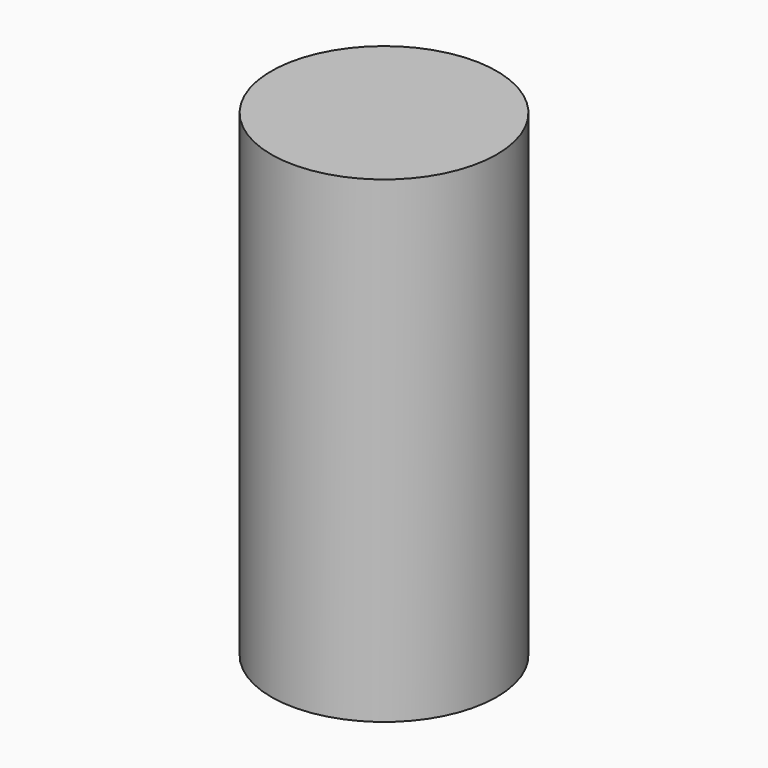
from build123d import *

# Parameters (mm, degrees)
F0_R     = 12
F1_DEPTH = 50.8


with BuildPart() as f1:
    # F0 (on Top) → F1 (new body)
    with BuildSketch(Plane.XY):
        with Locations((-27.038408, 0)):
            Circle(F0_R)
    extrude(amount=-F1_DEPTH)


solid = f1.part
